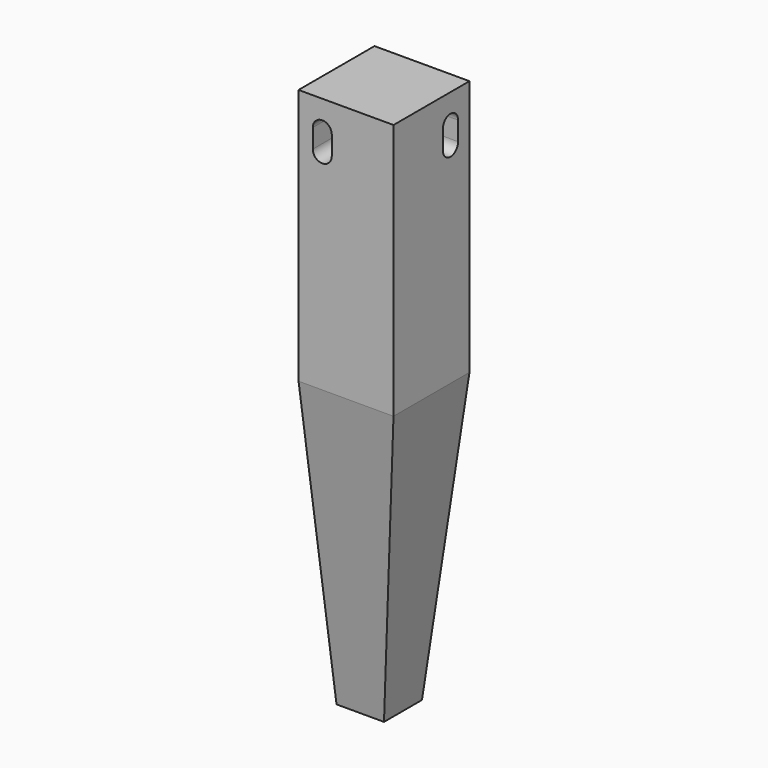
from build123d import *

# Parameters (mm, degrees)
F0_W      = 63.5
F0_H      = 63.5
F1_DEPTH  = 171.45
F3_W      = 31.75
F3_H      = 31.75
F1_FACE_W = 63.5
F1_FACE_H = 63.5
F6_DEPTH  = 19.05
F8_DEPTH  = 19.05


with BuildPart() as f1:
    # F0 (on Top) → F1 (new body)
    with BuildSketch(Plane.XY):
        Rectangle(F0_W, F0_H)
    extrude(amount=-F1_DEPTH)

    # F3 (on offset) → F4 section 0
    with BuildSketch(Plane(origin=(0, 0, -374.65), x_dir=(1, 0, 0), z_dir=(0, 0, -1))):
        with Locations((-15.875, -15.875)):
            Rectangle(F3_W, F3_H)
    # F1_face (on face) → F4 section 1
    with BuildSketch(Plane(origin=(0, 0, -171.45), x_dir=(1, 0, 0), z_dir=(0, 0, -1))):
        Rectangle(F1_FACE_W, F1_FACE_H)
    loft()

    # F5 (on face) → F6 (cut)
    with BuildSketch(Plane.XZ.offset(31.75)):
        with BuildLine():
            Line((-22.225, -19.05), (-22.225, -31.75))
            ThreePointArc((-22.225, -31.75), (-15.875, -38.1), (-9.525, -31.75))
            Line((-9.525, -31.75), (-9.525, -19.05))
            ThreePointArc((-9.525, -19.05), (-15.875, -12.7), (-22.225, -19.05))
        make_face()
    extrude(amount=-F6_DEPTH, mode=Mode.SUBTRACT)

    # F7 (on face) → F8 (cut)
    with BuildSketch(Plane.YZ.offset(31.75)):
        with BuildLine():
            Line((9.525, -19.05), (9.525, -31.75))
            ThreePointArc((9.525, -31.75), (15.875, -38.1), (22.225, -31.75))
            Line((22.225, -31.75), (22.225, -19.05))
            ThreePointArc((22.225, -19.05), (15.875, -12.7), (9.525, -19.05))
        make_face()
    extrude(amount=-F8_DEPTH, mode=Mode.SUBTRACT)


solid = f1.part
